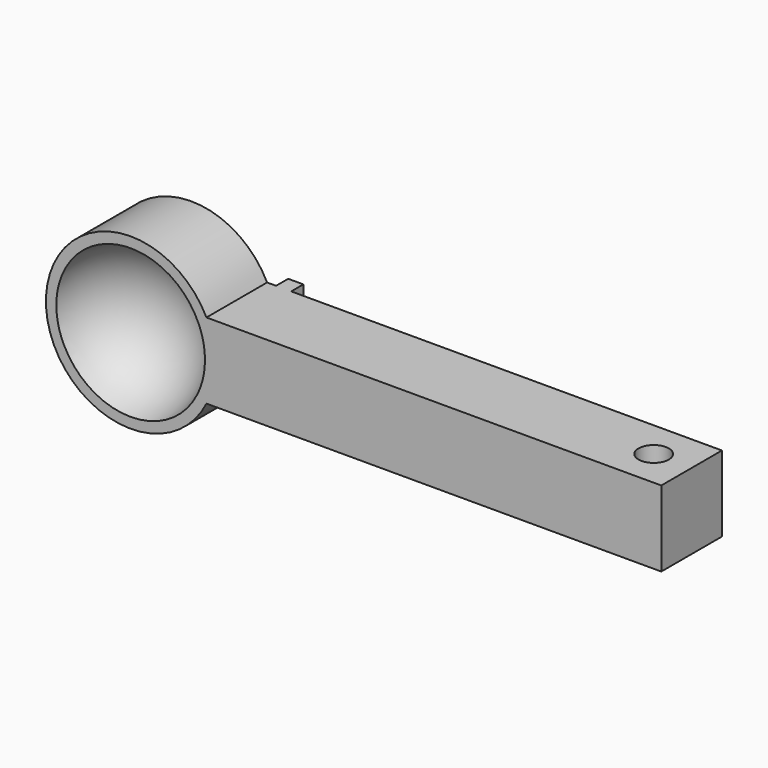
from build123d import *

# Parameters (mm, degrees)
F1_DEPTH  = 12.7
F6_DEPTH  = 12.7
F7_R      = 2.54
F8_DEPTH  = 12.7
F9_W      = 5.08
F9_H      = 2.54
F10_DEPTH = 6.35
F11_R     = 1.905
F12_DEPTH = 2.54
F14_DEPTH = 2.54


with BuildPart() as f1:
    # F0 (on Front) → F1 (new body)
    with BuildSketch(Plane.XZ):
        with BuildLine():
            ThreePointArc((-36.6009683429, 0), (-36.9808067883, 3.2622689922), (-38.1, 6.35))
            ThreePointArc((-38.1, 6.35), (-64.9990316571, 0), (-38.1, -6.35))
            ThreePointArc((-38.1, -6.35), (-36.9808067883, -3.2622689922), (-36.6009683429, 0))
        make_face()
    extrude(amount=F1_DEPTH)

    # F4 (on offset) → F5 (revolve, cut)
    with BuildSketch(Plane.XZ.offset(15.24)):
        with BuildLine():
            ThreePointArc((-63.5, 0), (-50.8, -12.7), (-38.1, 0))
            Line((-38.1, 0), (-63.5, 0))
        make_face()
    revolve(axis=Axis((-49.9650985003, -15.24, 0), (1, 0, 0)), mode=Mode.SUBTRACT)

    # F0 (on Front) → F6 (join)
    with BuildSketch(Plane.XZ):
        with BuildLine():
            Line((38.1, -6.35), (38.1, 6.35))
            Line((38.1, 6.35), (-38.1, 6.35))
            ThreePointArc((-38.1, 6.35), (-36.9808067883, 3.2622689922), (-36.6009683429, 0))
            ThreePointArc((-36.6009683429, 0), (-36.9808067883, -3.2622689922), (-38.1, -6.35))
            Line((-38.1, -6.35), (38.1, -6.35))
        make_face()
    extrude(amount=F6_DEPTH)

    # F7 (on face) → F8 (cut)
    with BuildSketch(Plane.XY.offset(6.35)):
        with Locations((31.75, -6.35)):
            Circle(F7_R)
    extrude(amount=-F8_DEPTH, mode=Mode.SUBTRACT)

    # F9 (on face) → F10 (join)
    with BuildSketch(Plane.XZ):
        with Locations((-52.2990316571, 0)):
            Rectangle(F9_W, F9_H)
    extrude(amount=-F10_DEPTH)

    # F11 (on face) → F12 (cut)
    with BuildSketch(Plane(origin=(0, 0, -1.27), x_dir=(1, 0, 0), z_dir=(0, 0, -1))):
        with Locations((-52.2990316571, -3.175)):
            Circle(F11_R)
    extrude(amount=-F12_DEPTH, mode=Mode.SUBTRACT)

    # F13 (on face) → F14 (join)
    with BuildSketch(Plane.XZ):
        Polygon((-36.6009683429, 0), (-36.6009683429, -6.35), (-34.0609683429, -6.35), (-34.0609683429, 6.35), (-36.6009683429, 6.35), align=None)
    extrude(amount=-F14_DEPTH)


solid = f1.part
